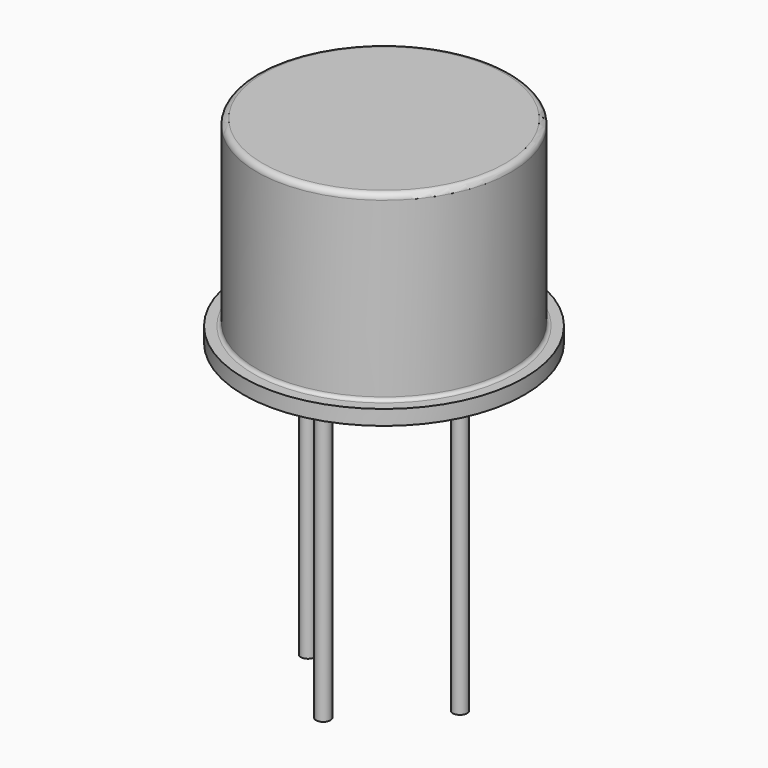
from build123d import *

# Parameters (mm, degrees)
SKETCH_R     = 0.24
PAD_DEPTH    = 10
PAD003_DEPTH = 0.5


with BuildPart() as pad:
    # Sketch → Pad (new body)
    with BuildSketch(Plane.XY.offset(5)):
        Circle(SKETCH_R)
        with Locations((5.08, 0)):
            Circle(SKETCH_R)
        with Locations((2.54, -2.54)):
            Circle(SKETCH_R)
    extrude(amount=-PAD_DEPTH)


with BuildPart() as revolution:
    # Sketch003 → Revolution (revolve)
    with BuildSketch(Plane.XZ):
        with BuildLine():
            Line((2.54, 5), (-2.16, 5))
            Line((-2.16, 5), (-2.16, 5.5))
            Line((-2.16, 5.5), (-1.82504, 5.502752))
            ThreePointArc((-1.82504, 5.502752), (-1.743637, 5.537059), (-1.71, 5.61874))
            Line((-1.71, 5.61874), (-1.71, 11.405088))
            ThreePointArc((-1.515088, 11.6), (-1.652912, 11.542912), (-1.71, 11.405088))
            Line((-1.515088, 11.6), (2.54, 11.6))
            Line((2.54, 11.6), (2.54, 5))
        make_face()
    revolve(axis=Axis((2.54, 0, 2.550668), (0, 0, 1)))


with BuildPart() as pad003:
    # Sketch004 → Pad003 (new body)
    with BuildSketch(Plane.XY.offset(5)):
        Polygon((2.844056, 0.304056), (-1.186453, 4.334565), (-1.794565, 3.726453), (2.235944, -0.304056), align=None)
    extrude(amount=PAD003_DEPTH)


solid = Compound([pad.part, revolution.part, pad003.part])
